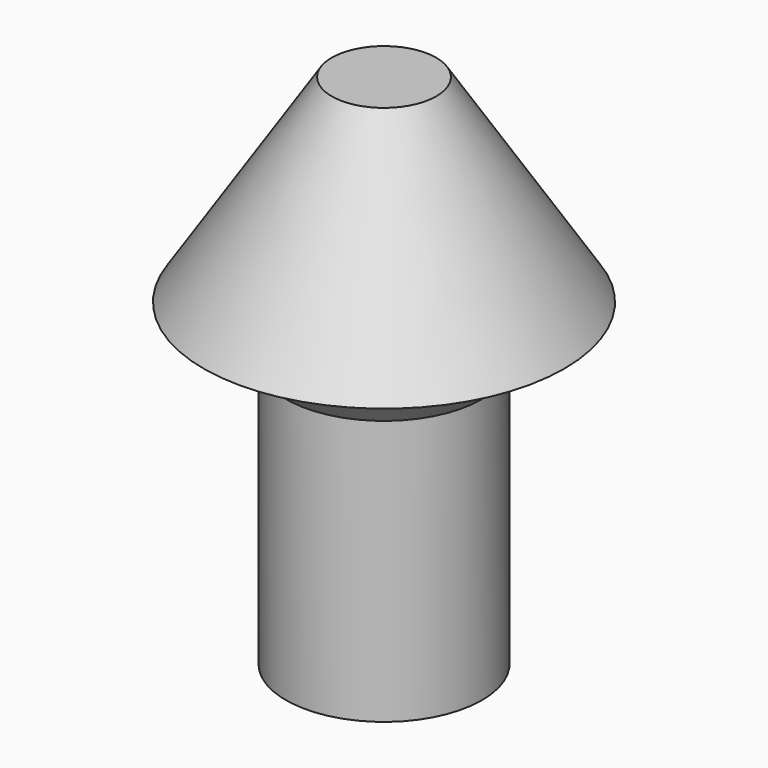
from build123d import *

# Parameters (mm, degrees)
F2_SIZE = 22.86


with BuildPart() as f1:
    # F0 (on Front) → F1 (revolve)
    with BuildSketch(Plane.XZ):
        Polygon((0, 0), (41.772794, 0), (41.772794, 135.714248), (76.852643, 135.714248), (22.267345, 220.073834), (0, 220.073834), align=None)
    revolve(axis=Axis((0, 0, 110.036917), (0, 0, -1)))

    # F2
    f2_edges = [f1.edges().sort_by_distance(p)[0] for p in [
        (-41.772794, 0, 135.714248),
    ]]
    chamfer(f2_edges, length=F2_SIZE)


solid = f1.part
